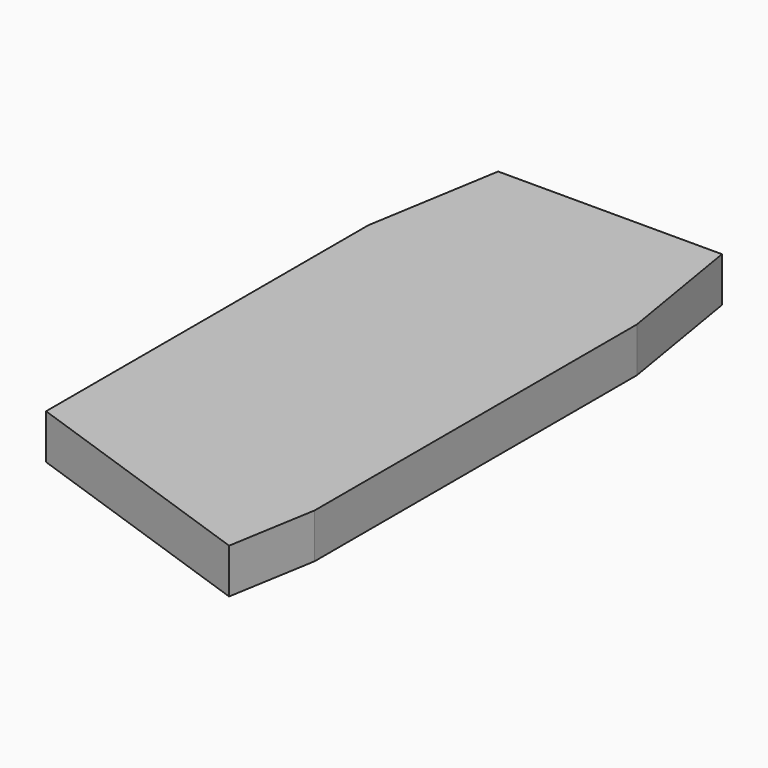
from build123d import *

# Parameters (mm, degrees)
F0_W     = 60
F0_H     = 45
F1_DEPTH = 10


with BuildPart() as f1:
    # F0 (on Top) → F1 (new body)
    with BuildSketch(Plane.XY):
        Polygon((-41.915993, 67.612308), (-46.915993, 37.612308), (13.084007, 37.612308), (8.084007, 67.612308), align=None)
        with Locations((-16.915993, 15.112308)):
            Rectangle(F0_W, F0_H)
        with Locations((-16.915993, -29.887692)):
            Rectangle(F0_W, F0_H)
        Polygon((13.084007, -52.387692), (-46.915993, -52.387692), (9.750673, -72.107958), align=None)
    extrude(amount=F1_DEPTH)


solid = f1.part
